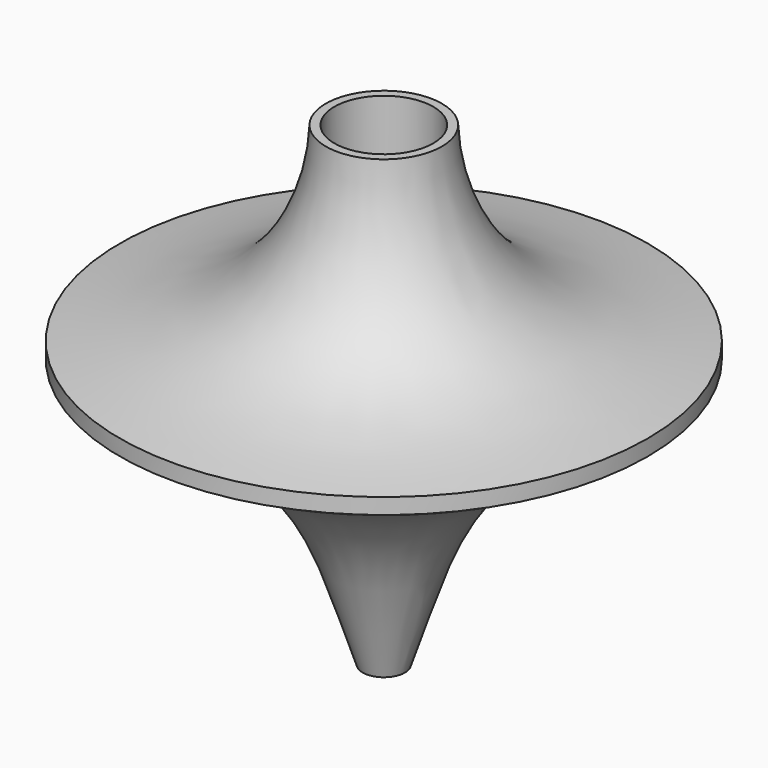
from build123d import *

# Parameters (mm, degrees)
F2_R     = 4.7625
F3_DEPTH = 9.525
F4_R     = 1.5884269423
F5_DEPTH = 17.78


with BuildPart() as f1:
    # F0 (on Front) → F1 (revolve)
    with BuildSketch(Plane.XZ):
        with BuildLine():
            Line((0, 45.72), (0, 0))
            Line((0, 0), (2.032, 0))
            add(Edge.make_bspline(
                [(2.032, 0), (4.0125234635, 5.712802884), (6.7370530543, 18.2060480538), (20.2172267396, 23.0468985691), (25.4, 25.908)],
                knots=[0, 0, 0, 0, 0.4925394747, 1, 1, 1, 1], degree=3))
            Line((25.4, 25.908), (25.4, 27.432))
            add(Edge.make_bspline(
                [(5.588, 45.72), (5.75367604, 40.4324909312), (10.4063519162, 30.2436000775), (20.018908953, 28.275345569), (25.4, 27.432)],
                knots=[0, 0, 0, 0, 0.5016412558, 1, 1, 1, 1], degree=3))
            Line((5.588, 45.72), (0, 45.72))
        make_face()
    revolve(axis=Axis((0, 0, 22.86), (0, 0, 1)))

    # F2 (on face) → F3 (cut)
    with BuildSketch(Plane.XY.offset(45.72)):
        Circle(F2_R)
    extrude(amount=-F3_DEPTH, mode=Mode.SUBTRACT)

    # F4 (on face) → F5 (cut)
    with BuildSketch(Plane(origin=(0, 0, 0), x_dir=(1, 0, 0), z_dir=(0, 0, -1))):
        Circle(F4_R)
    extrude(amount=-F5_DEPTH, mode=Mode.SUBTRACT)


solid = f1.part
